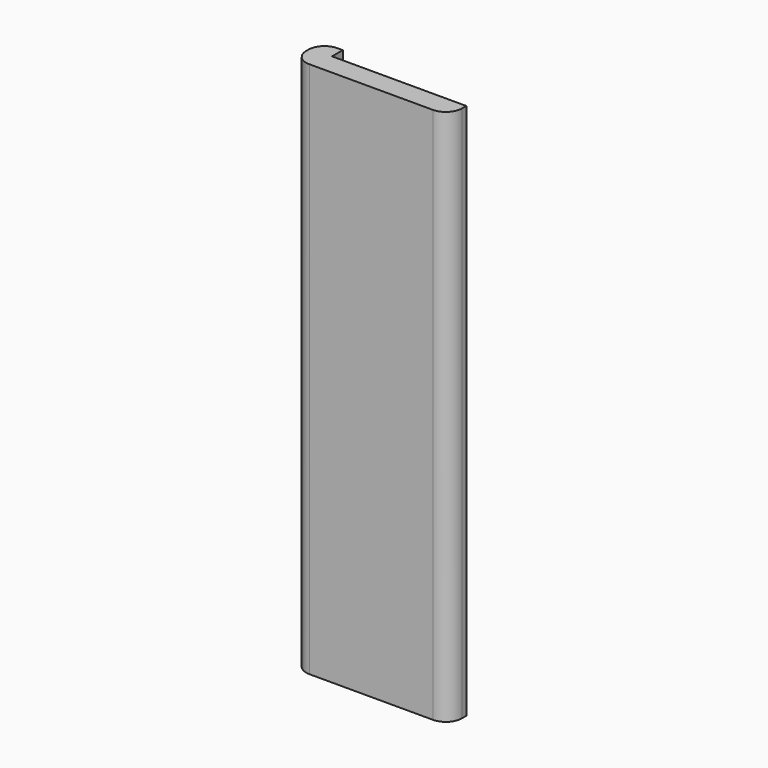
from build123d import *

# Parameters (mm, degrees)
PAD_DEPTH = 200
FILLET_R  = 6


with BuildPart() as part:
    # Sketch → Pad (new body)
    with BuildSketch(Plane.XY):
        Polygon((0, 0), (0, 13), (8, 13), (8, 8), (58, 8), (58, 0), align=None)
    extrude(amount=PAD_DEPTH)

    # Fillet
    fillet_edges = [part.edges().sort_by_distance(p)[0] for p in [
        (58, 0, 100),
        (0, 0, 100),
        (0, 13, 100),
    ]]
    fillet(fillet_edges, radius=FILLET_R)


solid = part.part
